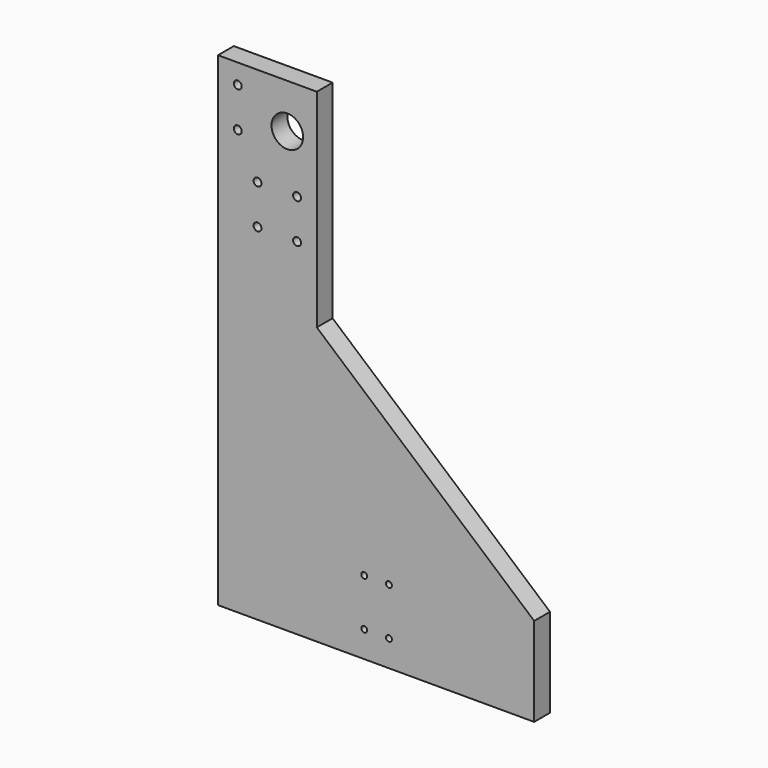
from build123d import *

# Parameters (mm, degrees)
F1_DEPTH = 20
F2_R     = 3
F2_R_2   = 4
F3_DEPTH = 20
F4_R     = 4
F5_DEPTH = 30
F6_R     = 16
F7_DEPTH = 25


with BuildPart() as f1:
    # F0 (on Front) → F1 (new body)
    with BuildSketch(Plane.XZ):
        Polygon((0, 490), (0, 0), (320, 0), (320, 90), (100, 280), (100, 490), align=None)
    extrude(amount=F1_DEPTH)

    # F2 (on face) → F3 (cut)
    with BuildSketch(Plane.XZ.offset(20)):
        with Locations((148, 26.596917)):
            Circle(F2_R)
        with Locations((148, 74.596917)):
            Circle(F2_R)
        with Locations((173, 74.596917)):
            Circle(F2_R)
        with Locations((173, 26.596917)):
            Circle(F2_R)
        with Locations((20, 470)):
            Circle(F2_R_2)
        with Locations((20, 430)):
            Circle(F2_R_2)
        with Locations((40, 390)):
            Circle(F2_R_2)
        with Locations((80, 390)):
            Circle(F2_R_2)
        with Locations((40, 350)):
            Circle(F2_R_2)
        with Locations((80, 350)):
            Circle(F2_R_2)
    extrude(amount=-F3_DEPTH, mode=Mode.SUBTRACT)

    # F4 (on face) → F5 (cut)
    with BuildSketch(Plane(origin=(0, 0, 0), x_dir=(1, 0, 0), z_dir=(0, 0, -1))):
        with Locations((35, 10)):
            Circle(F4_R)
        with Locations((95, 10)):
            Circle(F4_R)
        with Locations((160, 10)):
            Circle(F4_R)
        with Locations((225, 10)):
            Circle(F4_R)
        with Locations((285, 10)):
            Circle(F4_R)
    extrude(amount=-F5_DEPTH, mode=Mode.SUBTRACT)

    # F6 (on face) → F7 (cut)
    with BuildSketch(Plane.XZ.offset(20)):
        with Locations((70.1391, 445)):
            Circle(F6_R)
    extrude(amount=-F7_DEPTH, mode=Mode.SUBTRACT)


solid = f1.part
